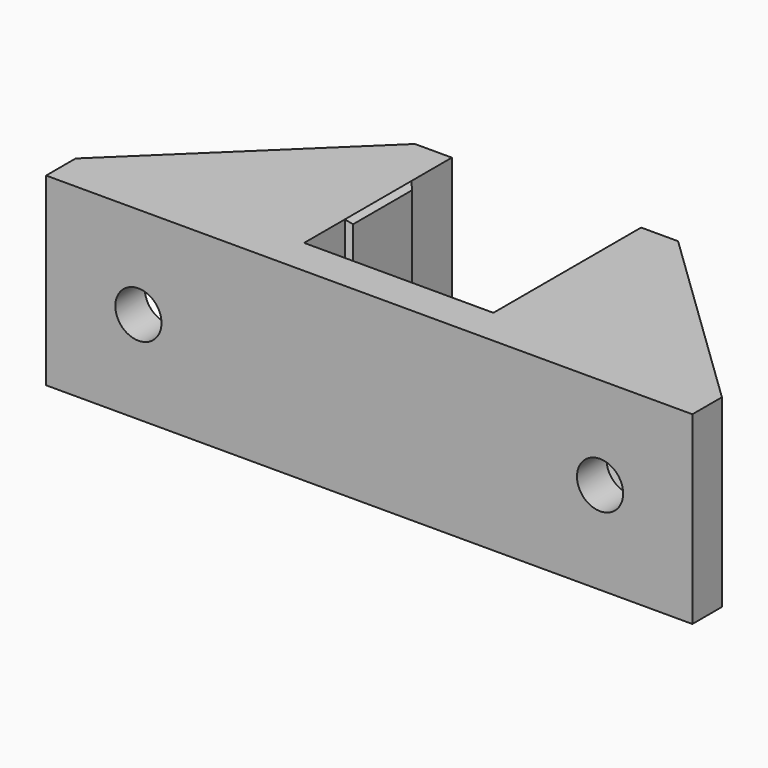
from build123d import *

# Parameters (mm, degrees)
F1_DEPTH  = 20
F2_R      = 2.5
F3_DEPTH  = 24.001
F4_SIZE   = 0.5
F5_R      = 2.5
F6_DEPTH  = 28.5
F8_DEPTH  = 4
F10_DEPTH = 4
F11_SIZE  = 1.5


with BuildPart() as f1:
    # F0 (on Top) → F1 (new body)
    with BuildSketch(Plane.XY):
        Polygon((0, 4), (0, 0), (70, 0), (70, 4), (49.25, 4), (49.25, 24), (45.25, 24), (45.25, 18.5), (44.75, 18), (44.75, 10), (45.25, 9.5), (45.25, 4), (39.75, 4), (38.25, 5.5), (32.25, 5.5), (30.75, 4), (24.75, 4), (24.75, 9.5), (25.25, 10), (25.25, 18), (24.75, 18.5), (24.75, 24), (20.75, 24), (20.75, 4), align=None)
    extrude(amount=F1_DEPTH)

    # F2 (on face) → F3 (cut, through all)
    with BuildSketch(Plane.XZ):
        with Locations((10, 10)):
            Circle(F2_R)
        with Locations((60, 10)):
            Circle(F2_R)
    extrude(amount=-F3_DEPTH, mode=Mode.SUBTRACT)

    # F4
    f4_edges = [f1.edges().sort_by_distance(p)[0] for p in [
        (25.25, 14, 20),
        (25.25, 14, 0),
        (44.75, 14, 20),
        (44.75, 14, 0),
    ]]
    chamfer(f4_edges, length=F4_SIZE)

    # F5 (on face) → F6 (cut, through all)
    with BuildSketch(Plane.YZ.offset(49.25)):
        with Locations((14, 10)):
            Circle(F5_R)
    extrude(amount=-F6_DEPTH, mode=Mode.SUBTRACT)

    # F7 (on face) → F8 (join)
    with BuildSketch(Plane.XY.offset(20)):
        Polygon((20.75, 4), (20.75, 24), (0, 4), align=None)
        Polygon((70, 4), (49.25, 24), (49.25, 4), align=None)
    extrude(amount=-F8_DEPTH)

    # F9 (on face) → F10 (join)
    with BuildSketch(Plane(origin=(0, 0, 0), x_dir=(1, 0, 0), z_dir=(0, 0, -1))):
        Polygon((0, -4), (20.75, -24), (20.75, -4), align=None)
        Polygon((49.25, -24), (70, -4), (49.25, -4), align=None)
    extrude(amount=-F10_DEPTH)

    # F11
    f11_edges = [f1.edges().sort_by_distance(p)[0] for p in [
        (35.25, 5.5, 20),
        (35.25, 5.5, 0),
    ]]
    chamfer(f11_edges, length=F11_SIZE)


solid = f1.part
